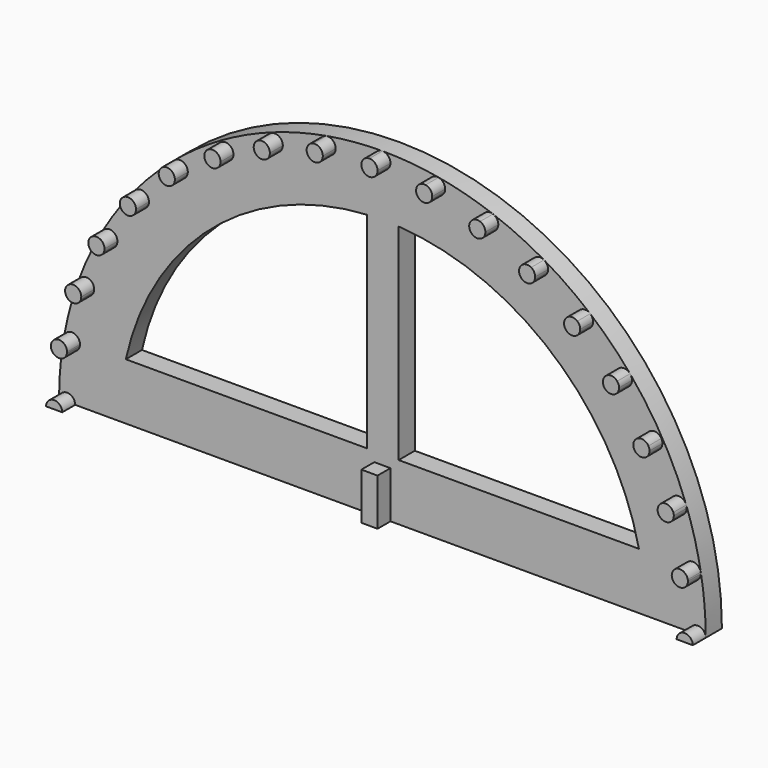
from build123d import *

# Parameters (mm, degrees)
F1_DEPTH  = 2.5
F2_W      = 91.701325
F2_H      = 45.404065
F3_DEPTH  = 3
F4_R      = 1
F5_DEPTH  = 2
F6_W      = 2
F6_H      = 11.584408
F7_DEPTH  = 2
F8_W      = 85.138977
F8_H      = 8.417186
F9_DEPTH  = 25
F11_DEPTH = 25


with BuildPart() as f1:
    # F0 (on Front) → F1 (new body)
    with BuildSketch(Plane.XZ):
        with BuildLine():
            Line((0, 0), (40, 0))
            ThreePointArc((40, 0), (0, 40), (-40, 0))
            Line((-40, 0), (0, 0))
        make_face()
        with BuildLine():
            ThreePointArc((-40, 0), (0, -40), (40, 0))
            Line((40, 0), (0, 0))
            Line((0, 0), (-40, 0))
        make_face()
    extrude(amount=F1_DEPTH)

    # F2 (on face) → F3 (cut)
    with BuildSketch(Plane.XZ.offset(2.5)):
        with Locations((2.381851, -22.702032)):
            Rectangle(F2_W, F2_H)
    extrude(amount=-F3_DEPTH, mode=Mode.SUBTRACT)

    # F4 (on face) → F5 (join)
    with BuildSketch(Plane.XZ.offset(2.5)):
        with BuildLine():
            ThreePointArc((-39.39231, 6.945927), (-38.581151, 5.787471), (-37.422695, 6.598631))
            Line((-37.422695, 6.598631), (-39.39231, 6.945927))
        make_face()
        with BuildLine():
            Line((-39.39231, 6.945927), (-37.422695, 6.598631))
            ThreePointArc((-37.422695, 6.598631), (-37.411308, 6.685123), (-37.407502, 6.772279))
            ThreePointArc((-37.407502, 6.772279), (-38.320347, 7.768474), (-39.39231, 6.945927))
        make_face()
        with BuildLine():
            ThreePointArc((-37.587705, 13.680806), (-36.990032, 12.399093), (-35.70832, 12.996765))
            Line((-35.70832, 12.996765), (-37.587705, 13.680806))
        make_face()
        with BuildLine():
            Line((-37.587705, 13.680806), (-35.70832, 12.996765))
            ThreePointArc((-35.70832, 12.996765), (-35.663204, 13.165137), (-35.648012, 13.338786))
            ThreePointArc((-35.648012, 13.338786), (-36.474364, 14.323593), (-37.587705, 13.680806))
        make_face()
        with BuildLine():
            ThreePointArc((-34.641016, 20), (-34.274991, 18.633975), (-32.908965, 19))
            Line((-32.908965, 19), (-34.641016, 20))
        make_face()
        with BuildLine():
            Line((-34.641016, 20), (-32.908965, 19))
            ThreePointArc((-32.908965, 19), (-32.809065, 19.241181), (-32.774991, 19.5))
            ThreePointArc((-32.774991, 19.5), (-33.516172, 20.465926), (-34.641016, 20))
        make_face()
        with BuildLine():
            ThreePointArc((-30.641778, 25.711504), (-30.518521, 24.302672), (-29.109689, 24.425929))
            Line((-29.109689, 24.425929), (-30.641778, 25.711504))
        make_face()
        with BuildLine():
            Line((-30.641778, 25.711504), (-29.109689, 24.425929))
            ThreePointArc((-29.109689, 24.425929), (-28.936041, 24.726697), (-28.875733, 25.068717))
            ThreePointArc((-28.875733, 25.068717), (-29.533713, 26.008409), (-30.641778, 25.711504))
        make_face()
        with BuildLine():
            ThreePointArc((-25.711504, 30.641778), (-25.834761, 29.232946), (-24.425929, 29.109689))
            Line((-24.425929, 29.109689), (-25.711504, 30.641778))
        make_face()
        with BuildLine():
            Line((-25.711504, 30.641778), (-24.425929, 29.109689))
            ThreePointArc((-24.425929, 29.109689), (-24.162409, 29.453115), (-24.068717, 29.875733))
            ThreePointArc((-24.068717, 29.875733), (-24.646099, 30.782041), (-25.711504, 30.641778))
        make_face()
        with BuildLine():
            ThreePointArc((-19.92265, 34.507042), (-20.288675, 33.141016), (-18.92265, 32.774991))
            Line((-18.92265, 32.774991), (-19.92265, 34.507042))
        make_face()
        with BuildLine():
            Line((-19.92265, 34.507042), (-18.92265, 32.774991))
            ThreePointArc((-18.92265, 32.774991), (-18.556624, 33.141016), (-18.42265, 33.641016))
            ThreePointArc((-18.42265, 33.641016), (-18.92265, 34.507042), (-19.92265, 34.507042))
        make_face()
        with BuildLine():
            ThreePointArc((-13.658856, 37.527397), (-14.256528, 36.245685), (-12.974815, 35.648012))
            Line((-12.974815, 35.648012), (-13.658856, 37.527397))
        make_face()
        with BuildLine():
            Line((-13.658856, 37.527397), (-12.974815, 35.648012))
            ThreePointArc((-12.974815, 35.648012), (-12.497683, 36.014128), (-12.316835, 36.587705))
            ThreePointArc((-12.316835, 36.587705), (-12.743259, 37.406857), (-13.658856, 37.527397))
        make_face()
        with BuildLine():
            ThreePointArc((-6.943248, 39.377118), (-7.754408, 38.218662), (-6.595952, 37.407502))
            Line((-6.595952, 37.407502), (-6.943248, 39.377118))
        make_face()
        with BuildLine():
            Line((-6.943248, 39.377118), (-6.595952, 37.407502))
            ThreePointArc((-6.595952, 37.407502), (-6.003556, 37.749523), (-5.7696, 38.39231))
            ThreePointArc((-5.7696, 38.39231), (-6.126813, 39.158355), (-6.943248, 39.377118))
        make_face()
        with BuildLine():
            ThreePointArc((0, 40), (-1, 39), (0, 38))
            Line((0, 38), (0, 40))
        make_face()
        with BuildLine():
            Line((0, 40), (0, 38))
            ThreePointArc((0, 38), (0.707107, 38.292893), (1, 39))
            ThreePointArc((1, 39), (0.707107, 39.707107), (0, 40))
        make_face()
        with BuildLine():
            ThreePointArc((6.943248, 39.377118), (5.784792, 38.565958), (6.595952, 37.407502))
            Line((6.595952, 37.407502), (6.943248, 39.377118))
        make_face()
        with BuildLine():
            Line((6.943248, 39.377118), (6.595952, 37.407502))
            ThreePointArc((6.595952, 37.407502), (7.412388, 37.626266), (7.7696, 38.39231))
            ThreePointArc((7.7696, 38.39231), (7.535645, 39.035098), (6.943248, 39.377118))
        make_face()
        with BuildLine():
            ThreePointArc((13.680806, 37.587705), (12.399093, 36.990032), (12.996765, 35.70832))
            Line((12.996765, 35.70832), (13.680806, 37.587705))
        make_face()
        with BuildLine():
            Line((13.680806, 37.587705), (12.996765, 35.70832))
            ThreePointArc((12.996765, 35.70832), (13.912362, 35.82886), (14.338786, 36.648012))
            ThreePointArc((14.338786, 36.648012), (14.157938, 37.221589), (13.680806, 37.587705))
        make_face()
        with BuildLine():
            ThreePointArc((20, 34.641016), (18.633975, 34.274991), (19, 32.908965))
            Line((19, 32.908965), (20, 34.641016))
        make_face()
        with BuildLine():
            Line((20, 34.641016), (19, 32.908965))
            ThreePointArc((19, 32.908965), (20, 32.908965), (20.5, 33.774991))
            ThreePointArc((20.5, 33.774991), (20.366025, 34.274991), (20, 34.641016))
        make_face()
        with BuildLine():
            ThreePointArc((25.711504, 30.641778), (24.302672, 30.518521), (24.425929, 29.109689))
            Line((24.425929, 29.109689), (25.711504, 30.641778))
        make_face()
        with BuildLine():
            Line((25.711504, 30.641778), (24.425929, 29.109689))
            ThreePointArc((24.425929, 29.109689), (25.491335, 28.969425), (26.068717, 29.875733))
            ThreePointArc((26.068717, 29.875733), (25.975025, 30.298352), (25.711504, 30.641778))
        make_face()
        with BuildLine():
            ThreePointArc((34.507042, 19.92265), (33.141016, 20.288675), (32.774991, 18.92265))
            Line((32.774991, 18.92265), (34.507042, 19.92265))
        make_face()
        with BuildLine():
            Line((34.507042, 19.92265), (32.774991, 18.92265))
            ThreePointArc((32.774991, 18.92265), (33.899835, 18.456724), (34.641016, 19.42265))
            ThreePointArc((34.641016, 19.42265), (34.606942, 19.681469), (34.507042, 19.92265))
        make_face()
        with BuildLine():
            ThreePointArc((30.641778, 25.711504), (29.232946, 25.834761), (29.109689, 24.425929))
            Line((29.109689, 24.425929), (30.641778, 25.711504))
        make_face()
        with BuildLine():
            Line((30.641778, 25.711504), (29.109689, 24.425929))
            ThreePointArc((29.109689, 24.425929), (30.217753, 24.129024), (30.875733, 25.068717))
            ThreePointArc((30.875733, 25.068717), (30.815426, 25.410737), (30.641778, 25.711504))
        make_face()
        with BuildLine():
            ThreePointArc((37.587705, 13.680806), (36.305992, 14.278478), (35.70832, 12.996765))
            Line((35.70832, 12.996765), (37.587705, 13.680806))
        make_face()
        with BuildLine():
            Line((37.587705, 13.680806), (35.70832, 12.996765))
            ThreePointArc((35.70832, 12.996765), (36.82166, 12.353978), (37.648012, 13.338786))
            ThreePointArc((37.648012, 13.338786), (37.63282, 13.512434), (37.587705, 13.680806))
        make_face()
        with BuildLine():
            ThreePointArc((39.377118, 6.943248), (38.218662, 7.754408), (37.407502, 6.595952))
            Line((37.407502, 6.595952), (39.377118, 6.943248))
        make_face()
        with BuildLine():
            Line((39.377118, 6.943248), (37.407502, 6.595952))
            ThreePointArc((37.407502, 6.595952), (38.479466, 5.773405), (39.39231, 6.7696))
            ThreePointArc((39.39231, 6.7696), (39.388505, 6.856756), (39.377118, 6.943248))
        make_face()
        with Locations((39, 0)):
            Circle(F4_R)
        with Locations((-39, 0)):
            Circle(F4_R)
    extrude(amount=F5_DEPTH)

    # F6 (on face) → F7 (join)
    with BuildSketch(Plane.XZ.offset(2.5)):
        Rectangle(F6_W, F6_H)
    extrude(amount=F7_DEPTH)

    # F8 (on face) → F9 (cut)
    with BuildSketch(Plane.XZ.offset(2.5)):
        with Locations((0.1629, -4.208593)):
            Rectangle(F8_W, F8_H)
    extrude(amount=F9_DEPTH, mode=Mode.SUBTRACT)

    # F10 (on face) → F11 (cut)
    with BuildSketch(Plane.XZ.offset(2.5)):
        with BuildLine():
            ThreePointArc((-1.931269, 32.442568), (-21.100297, 24.718969), (-31.737202, 7))
            Line((-31.737202, 7), (-1.931269, 7))
            Line((-1.931269, 7), (-1.931269, 32.442568))
        make_face()
        with BuildLine():
            Line((2.01368, 7), (31.737202, 7))
            ThreePointArc((31.737202, 7), (21.131679, 24.692148), (2.01368, 32.437557))
            Line((2.01368, 32.437557), (2.01368, 7))
        make_face()
    extrude(amount=-F11_DEPTH, mode=Mode.SUBTRACT)


solid = f1.part
